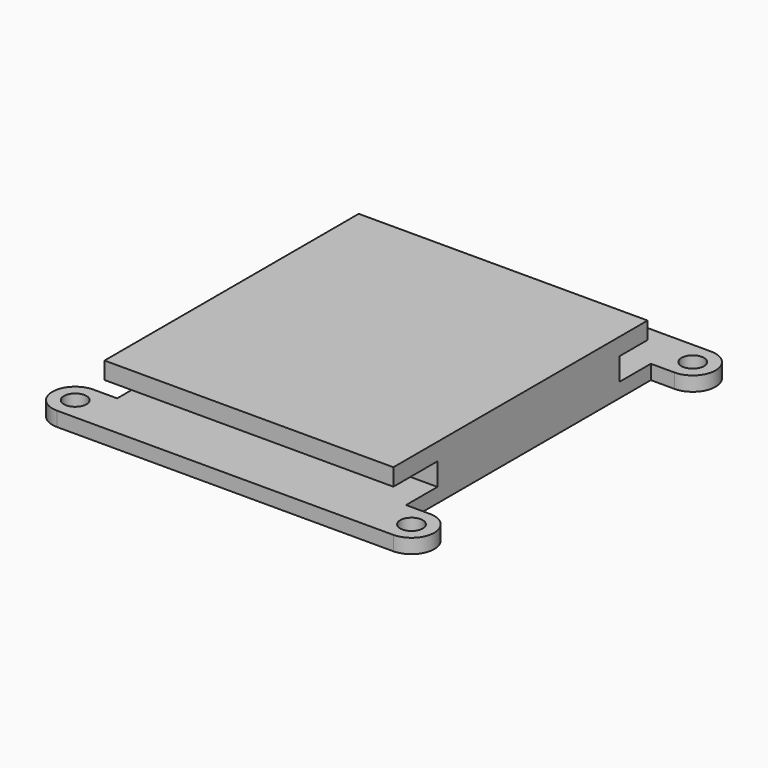
from build123d import *

# Parameters (mm, degrees)
SKETCH073_W  = 32
SKETCH073_H  = 44
PAD037_DEPTH = 1.6
SKETCH074_W  = 32
SKETCH074_H  = 25.2
PAD038_DEPTH = 2.5
SKETCH075_W  = 32
SKETCH075_H  = 35.2
PAD039_DEPTH = 1.9
SKETCH076_R  = 1.25
PAD040_DEPTH = 1.6


with BuildPart() as part:
    # Sketch073 → Pad037 (new body)
    with BuildSketch(Plane.XY):
        Rectangle(SKETCH073_W, SKETCH073_H)
    extrude(amount=PAD037_DEPTH)

    # Sketch074 → Pad038 (join)
    with BuildSketch(Plane.XY.offset(1.6)):
        Rectangle(SKETCH074_W, SKETCH074_H)
    extrude(amount=PAD038_DEPTH)

    # Sketch075 → Pad039 (join)
    with BuildSketch(Plane.XY.offset(4.1)):
        with Locations((0, -1.1)):
            Rectangle(SKETCH075_W, SKETCH075_H)
    extrude(amount=PAD039_DEPTH)

    # Sketch076 → Pad040 (join)
    with BuildSketch(Plane.XY):
        with BuildLine():
            Line((16, 22), (16, 16.95))
            Line((16, 16.95), (18.625, 16.95))
            ThreePointArc((18.625, 16.95), (21.15, 19.475), (18.625, 22))
            Line((18.625, 22), (16, 22))
        make_face()
        with Locations((18.625, 19.475)):
            Circle(SKETCH076_R, mode=Mode.SUBTRACT)
        with BuildLine():
            Line((16, -22), (18.625, -22))
            ThreePointArc((18.625, -22), (21.15, -19.475), (18.625, -16.95))
            Line((18.625, -16.95), (16, -16.95))
            Line((16, -16.95), (16, -22))
        make_face()
        with Locations((18.625, -19.475)):
            Circle(SKETCH076_R, mode=Mode.SUBTRACT)
        with BuildLine():
            Line((-16, -22), (-16, -16.95))
            Line((-16, -16.95), (-18.625, -16.95))
            ThreePointArc((-18.625, -16.95), (-21.15, -19.475), (-18.625, -22))
            Line((-18.625, -22), (-16, -22))
        make_face()
        with Locations((-18.625, -19.475)):
            Circle(SKETCH076_R, mode=Mode.SUBTRACT)
        with BuildLine():
            Line((-16, 22), (-18.625, 22))
            ThreePointArc((-18.625, 22), (-20.410445, 21.260445), (-21.15, 19.475))
            ThreePointArc((-21.15, 19.475), (-20.410445, 17.689555), (-18.625, 16.95))
            Line((-18.625, 16.95), (-16, 16.95))
            Line((-16, 16.95), (-16, 22))
        make_face()
        with Locations((-18.625, 19.475)):
            Circle(SKETCH076_R, mode=Mode.SUBTRACT)
    extrude(amount=PAD040_DEPTH)


with BuildPart() as part_1:
    # Body011 placement: moved
    add(part.part.moved(Location((0, 12, 19.1))))


solid = part_1.part
